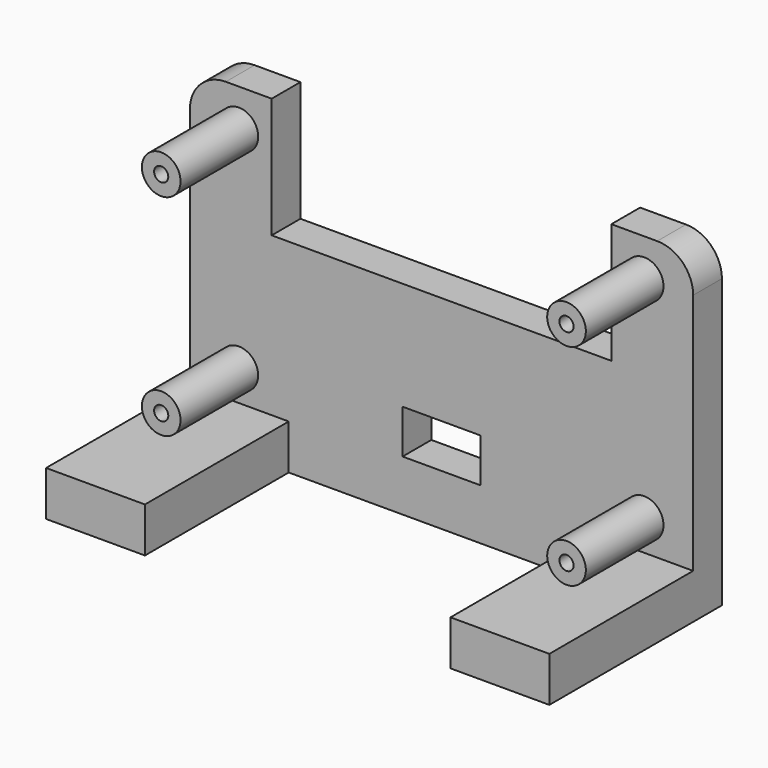
from build123d import *

# Parameters (mm, degrees)
F0_R      = 2.7305
F1_DEPTH  = 13.716
F0_W      = 71.12
F0_H      = 39.37
F0_H_2    = 6.35
F2_DEPTH  = 5.08
F3_DEPTH  = 25.4
F4_W      = 43.18
F4_H      = 25.4
F5_DEPTH  = 6.351
F6_R      = 1
F7_DEPTH  = 9
F8_R      = 5.08
F9_W      = 48
F9_H      = 17
F9_W_2    = 11
F9_H_2    = 6.2
F10_DEPTH = 25.4


with BuildPart() as f1:
    # F0 (on Front) → F1 (new body)
    with BuildSketch(Plane.XZ):
        with Locations((6.9215, 40.386)):
            Circle(F0_R)
    extrude(amount=F1_DEPTH)



with BuildPart() as f1b:
    # F0 (on Front) → F1, piece 2 (new body)
    with BuildSketch(Plane.XZ):
        with Locations((6.9215, 10.668)):
            Circle(F0_R)
    extrude(amount=F1_DEPTH)


with BuildPart() as f1c:
    # F0 (on Front) → F1, piece 3 (new body)
    with BuildSketch(Plane.XZ):
        with Locations((64.1985, 10.668)):
            Circle(F0_R)
    extrude(amount=F1_DEPTH)


with BuildPart() as f1d:
    # F0 (on Front) → F1, piece 4 (new body)
    with BuildSketch(Plane.XZ):
        with Locations((64.1985, 40.386)):
            Circle(F0_R)
    extrude(amount=F1_DEPTH)


with BuildPart() as f1_1:
    add(f1.part)

    add(f1b.part)  # F2 merges F1b

    add(f1c.part)  # F2 merges F1c

    add(f1d.part)  # F2 merges F1d
    # F0 (on Front) → F2 (join)
    with BuildSketch(Plane.XZ):
        with Locations((35.56, 26.035)):
            Rectangle(F0_W, F0_H)
        with Locations((6.9215, 10.668)):
            Circle(F0_R, mode=Mode.SUBTRACT)
        with Locations((64.1985, 10.668)):
            Circle(F0_R, mode=Mode.SUBTRACT)
        with Locations((6.9215, 40.386)):
            Circle(F0_R, mode=Mode.SUBTRACT)
        with Locations((64.1985, 40.386)):
            Circle(F0_R, mode=Mode.SUBTRACT)
        with Locations((35.56, 3.175)):
            Rectangle(F0_W, F0_H_2)
        with Locations((64.1985, 40.386)):
            Circle(F0_R)
        with Locations((6.9215, 40.386)):
            Circle(F0_R)
        with Locations((6.9215, 10.668)):
            Circle(F0_R)
        with Locations((64.1985, 10.668)):
            Circle(F0_R)
    extrude(amount=-F2_DEPTH)

    # F0 (on Front) → F3 (join)
    with BuildSketch(Plane.XZ):
        with Locations((35.56, 3.175)):
            Rectangle(F0_W, F0_H_2)
    extrude(amount=F3_DEPTH)

    # F4 (on face) → F5 (cut, through all)
    with BuildSketch(Plane.XY.offset(6.35)):
        with Locations((35.56, -12.7)):
            Rectangle(F4_W, F4_H)
    extrude(amount=-F5_DEPTH, mode=Mode.SUBTRACT)

    # F6 (on face) → F7 (cut)
    with BuildSketch(Plane.XZ.offset(13.716)):
        with Locations((6.9215, 10.668)):
            Circle(F6_R)
        with Locations((6.9215, 40.386)):
            Circle(F6_R)
        with Locations((64.1985, 40.386)):
            Circle(F6_R)
        with Locations((64.1985, 10.668)):
            Circle(F6_R)
    extrude(amount=-F7_DEPTH, mode=Mode.SUBTRACT)

    # F8
    f8_edges = [f1_1.edges().sort_by_distance(p)[0] for p in [
        (0, 2.54, 45.72),
        (71.12, 2.54, 45.72),
    ]]
    fillet(f8_edges, radius=F8_R)

    # F9 (on face) → F10 (cut)
    with BuildSketch(Plane(origin=(0, 5.08, 0), x_dir=(-1, 0, 0), z_dir=(0, 1, 0))):
        with Locations((-35.56, 37.22)):
            Rectangle(F9_W, F9_H)
        with Locations((-35.56, 10.32)):
            Rectangle(F9_W_2, F9_H_2)
    extrude(amount=-F10_DEPTH, mode=Mode.SUBTRACT)


solid = f1_1.part
